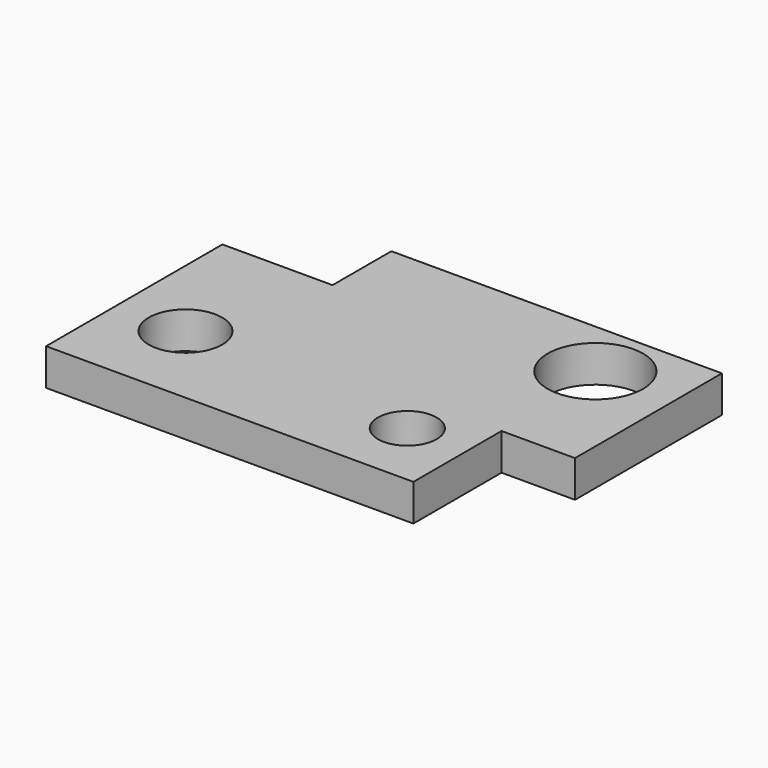
from build123d import *

# Parameters (mm, degrees)
F0_R     = 25.4
F0_R_2   = 20.32
F0_R_3   = 33.02
F1_DEPTH = 25.4


with BuildPart() as f1:
    # F0 (on Top) → F1 (new body)
    with BuildSketch(Plane.XY):
        Polygon((-120.749719, 74.500134), (-120.749719, -77.899866), (133.250281, -77.899866), (133.250281, -1.699866), (184.050281, -1.699866), (184.050281, 125.300134), (-44.549719, 125.300134), (-44.549719, 74.500134), align=None)
        with Locations((-73.000446, -17.084097)):
            Circle(F0_R, mode=Mode.SUBTRACT)
        with Locations((91.5884, -31.07599)):
            Circle(F0_R_2, mode=Mode.SUBTRACT)
        with Locations((129.145592, 84.541231)):
            Circle(F0_R_3, mode=Mode.SUBTRACT)
    extrude(amount=F1_DEPTH)


solid = f1.part
